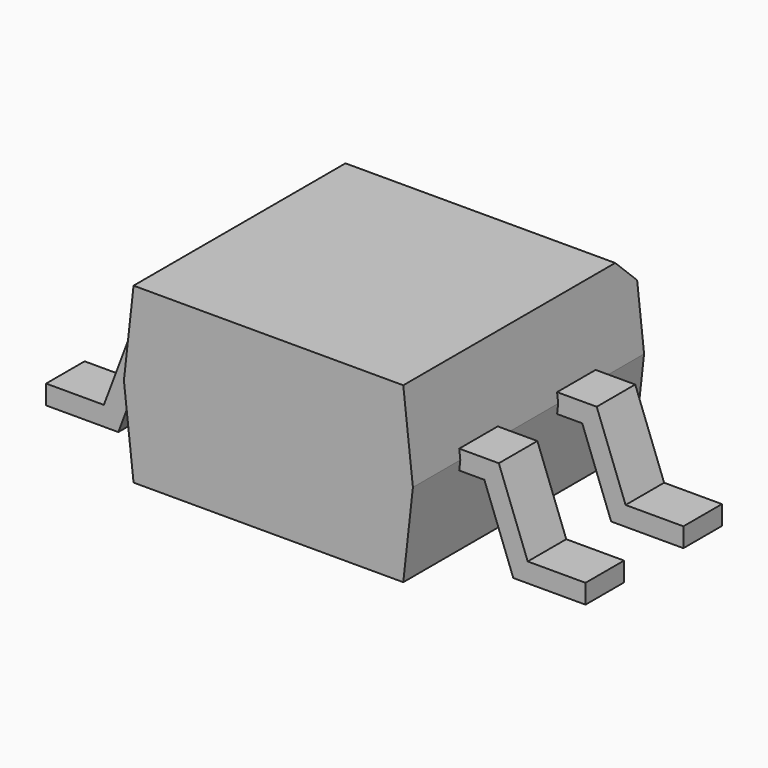
from build123d import *

# Parameters (mm, degrees)
PAD002_DEPTH = 0.25
PAD003_DEPTH = 0.25
PAD_DEPTH    = 1.5
CHAMFER_SIZE = 0.25


with BuildPart() as pad002:
    # Sketch002 → Pad002 (new body, symmetric)
    with BuildSketch(Plane.XZ.offset(-0.635)):
        Polygon((-2.8, 0), (-2.05, 0), (-1.75, 0.8), (1.75, 0.8), (2.05, 0), (2.8, 0), (2.8, 0.2), (2.2, 0.2), (1.9, 1), (-1.9, 1), (-2.2, 0.2), (-2.8, 0.2), align=None)
    extrude(amount=PAD002_DEPTH, both=True)


with BuildPart() as pad003:
    # Sketch003 → Pad003 (new body, symmetric)
    with BuildSketch(Plane.XZ.offset(0.635)):
        Polygon((-2.8, 0), (-2.05, 0), (-1.75, 0.8), (1.75, 0.8), (2.05, 0), (2.8, 0), (2.8, 0.2), (2.2, 0.2), (1.9, 1), (-1.9, 1), (-2.2, 0.2), (-2.8, 0.2), align=None)
    extrude(amount=PAD003_DEPTH, both=True)


with BuildPart() as obj1:
    # Sketch → Pad (new body, symmetric)
    with BuildSketch(Plane.XZ):
        Polygon((-1.4, 0), (1.4, 0), (1.5, 0.9), (1.4, 1.8), (-1.4, 1.8), (-1.5, 0.9), align=None)
    extrude(amount=PAD_DEPTH, both=True)

    # Chamfer
    chamfer_edges = [obj1.edges().sort_by_distance(p)[0] for p in [
        (0, 1.5, 1.8),
    ]]
    chamfer(chamfer_edges, length=CHAMFER_SIZE)

    # obj1: union Pad002, Pad003
    add(pad002.part)
    add(pad003.part)


solid = obj1.part
